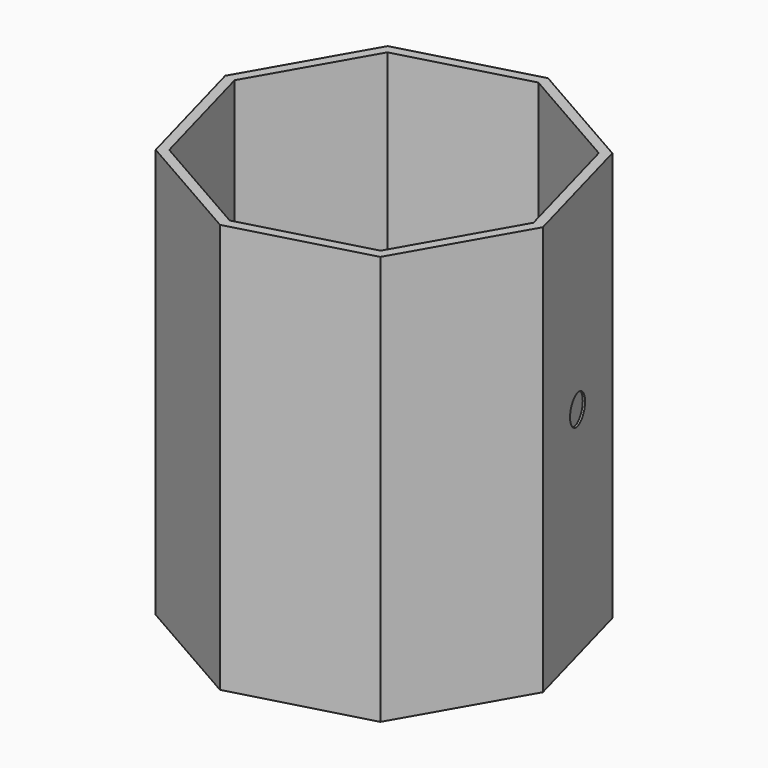
from build123d import *

# Parameters (mm, degrees)
F1_DEPTH = 210
F2_T     = -5
F3_R     = 7.5548203201
F4_DEPTH = 1


with BuildPart() as f1:
    # F0 (on Top) → F1 (new body)
    with BuildSketch(Plane.XY):
        Polygon((55.9746139076, -72.3302552581), (90.7252430464, -11.5651849096), (72.3302552581, 55.9746139076), (11.5651849096, 90.7252430464), (-55.9746139076, 72.3302552581), (-90.7252430464, 11.5651849096), (-72.3302552581, -55.9746139076), (-11.5651849096, -90.7252430464), align=None)
    extrude(amount=F1_DEPTH)

    # F2
    f2_openings = [f1.faces().sort_by_distance(p)[0] for p in [
        (0, 0, 210),
    ]]
    offset(amount=F2_T, openings=f2_openings)

    # F3 (on face) → F4 (cut)
    with BuildSketch(Plane(origin=(81.5277491522, 22.204714499, 0), x_dir=(-0.2627855398, 0.9648542688, 0), z_dir=(0.9648542688, 0.2627855398, 0))):
        with Locations((0, 111.0091432929)):
            Circle(F3_R)
    extrude(amount=-F4_DEPTH, mode=Mode.SUBTRACT)


solid = f1.part
